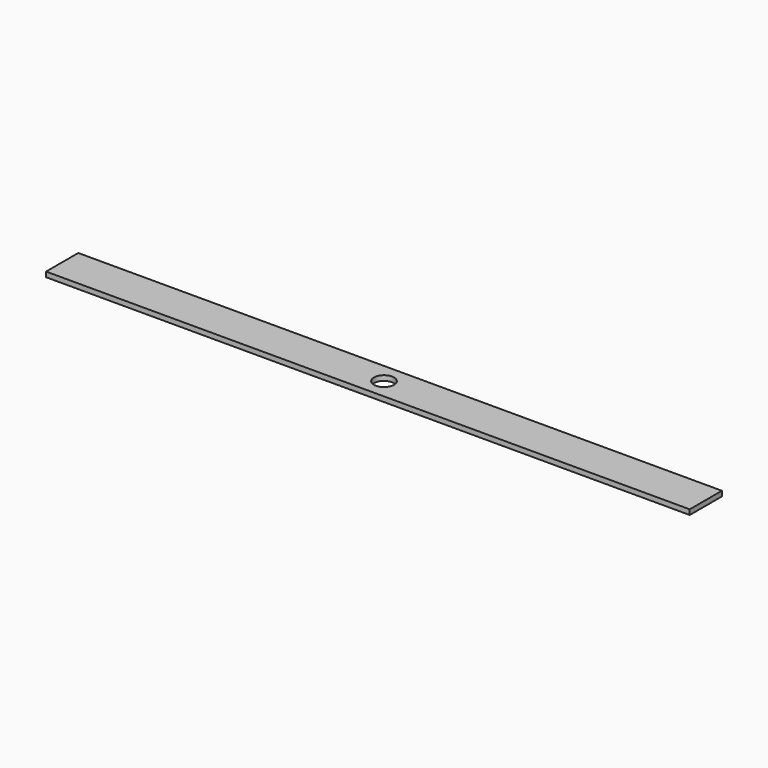
from build123d import *

# Parameters (mm, degrees)
F0_W     = 38.1
F0_H     = 4.7625
F1_DEPTH = 609.6
F2_R     = 9.525
F3_DEPTH = 25.4


with BuildPart() as f1:
    # F0 (on Right) → F1 (new body)
    with BuildSketch(Plane.YZ):
        with Locations((19.05, 2.38125)):
            Rectangle(F0_W, F0_H)
    extrude(amount=F1_DEPTH)

    # F2 (on face) → F3 (cut)
    with BuildSketch(Plane.XY.offset(4.7625)):
        with Locations((304.8, 19.05)):
            Circle(F2_R)
    extrude(amount=-F3_DEPTH, mode=Mode.SUBTRACT)


solid = f1.part
